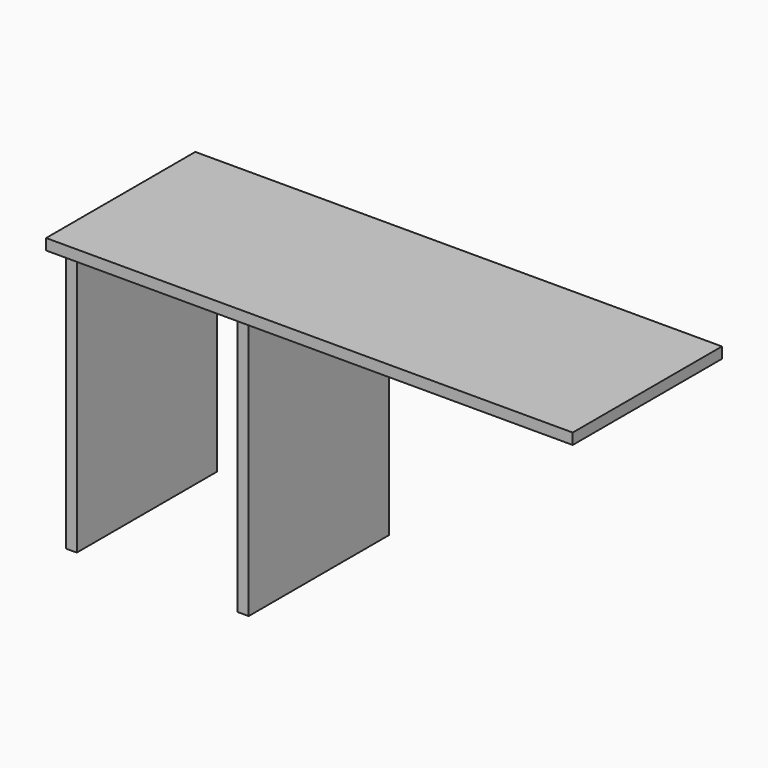
from build123d import *

# Parameters (mm, degrees)
F0_W     = 558.8
F0_H     = 374.65
F0_W_2   = 38.1
F0_W_3   = 482.6
F0_H_2   = 19.05
F0_H_3   = 184.15
F0_H_4   = 12.7
F1_DEPTH = 38.1
F2_DEPTH = 914.4
F3_DEPTH = 914.4


with BuildPart() as f1:
    # F0 (on Top) → F1 (new body)
    with BuildSketch(Plane.XY):
        with Locations((558.8, 136.525)):
            Rectangle(F0_W, F0_H)
        with Locations((895.35, 136.525)):
            Rectangle(F0_W_2, F0_H)
        with Locations((-558.8, 136.525)):
            Rectangle(F0_W, F0_H)
        with Locations((-895.35, 136.525)):
            Rectangle(F0_W_2, F0_H)
        with Locations((0, 136.525)):
            Rectangle(F0_W_3, F0_H)
        with Locations((895.35, -60.325)):
            Rectangle(F0_W_2, F0_H_2)
        with Locations((-895.35, -60.325)):
            Rectangle(F0_W_2, F0_H_2)
        with Locations((260.35, 136.525)):
            Rectangle(F0_W_2, F0_H)
        with Locations((895.35, -161.925)):
            Rectangle(F0_W_2, F0_H_3)
        with Locations((-895.35, -263.525)):
            Rectangle(F0_W_2, F0_H_2)
        with Locations((857.25, 136.525)):
            Rectangle(F0_W_2, F0_H)
        Polygon((-914.4, -323.85), (914.4, -323.85), (914.4, -273.05), (876.3, -273.05), (876.3, -285.75), (838.2, -285.75), (838.2, -273.05), (279.4, -273.05), (279.4, -285.75), (241.3, -285.75), (241.3, -273.05), (-241.3, -273.05), (-241.3, -285.75), (-279.4, -285.75), (-279.4, -273.05), (-838.2, -273.05), (-838.2, -285.75), (-876.3, -285.75), (-876.3, -273.05), (-914.4, -273.05), align=None)
        with Locations((-895.35, -161.925)):
            Rectangle(F0_W_2, F0_H_3)
        with Locations((895.35, -263.525)):
            Rectangle(F0_W_2, F0_H_2)
        with Locations((-857.25, 136.525)):
            Rectangle(F0_W_2, F0_H)
        with Locations((-260.35, 136.525)):
            Rectangle(F0_W_2, F0_H)
        with Locations((-558.8, -60.325)):
            Rectangle(F0_W, F0_H_2)
        with Locations((-558.8, -161.925)):
            Rectangle(F0_W, F0_H_3)
        with Locations((-260.35, -161.925)):
            Rectangle(F0_W_2, F0_H_3)
        with Locations((0, -161.925)):
            Rectangle(F0_W_3, F0_H_3)
        with Locations((558.8, -161.925)):
            Rectangle(F0_W, F0_H_3)
        with Locations((260.35, -161.925)):
            Rectangle(F0_W_2, F0_H_3)
        with Locations((857.25, -161.925)):
            Rectangle(F0_W_2, F0_H_3)
        with Locations((558.8, -60.325)):
            Rectangle(F0_W, F0_H_2)
        with Locations((-857.25, -161.925)):
            Rectangle(F0_W_2, F0_H_3)
        with Locations((-857.25, -60.325)):
            Rectangle(F0_W_2, F0_H_2)
        with Locations((-857.25, -263.525)):
            Rectangle(F0_W_2, F0_H_2)
        with Locations((-857.25, -279.4)):
            Rectangle(F0_W_2, F0_H_4)
        with Locations((-558.8, -263.525)):
            Rectangle(F0_W, F0_H_2)
        with Locations((0, -60.325)):
            Rectangle(F0_W_3, F0_H_2)
        with Locations((0, -263.525)):
            Rectangle(F0_W_3, F0_H_2)
        with Locations((-260.35, -263.525)):
            Rectangle(F0_W_2, F0_H_2)
        with Locations((-260.35, -279.4)):
            Rectangle(F0_W_2, F0_H_4)
        with Locations((-260.35, -60.325)):
            Rectangle(F0_W_2, F0_H_2)
        with Locations((260.35, -60.325)):
            Rectangle(F0_W_2, F0_H_2)
        with Locations((260.35, -279.4)):
            Rectangle(F0_W_2, F0_H_4)
        with Locations((260.35, -263.525)):
            Rectangle(F0_W_2, F0_H_2)
        with Locations((558.8, -263.525)):
            Rectangle(F0_W, F0_H_2)
        with Locations((857.25, -60.325)):
            Rectangle(F0_W_2, F0_H_2)
        with Locations((857.25, -263.525)):
            Rectangle(F0_W_2, F0_H_2)
        with Locations((857.25, -279.4)):
            Rectangle(F0_W_2, F0_H_4)
    extrude(amount=F1_DEPTH)

    # F0 (on Top) → F2 (join)
    with BuildSketch(Plane.XY):
        with Locations((-260.35, -263.525)):
            Rectangle(F0_W_2, F0_H_2)
        with Locations((-260.35, -60.325)):
            Rectangle(F0_W_2, F0_H_2)
        with Locations((-260.35, -161.925)):
            Rectangle(F0_W_2, F0_H_3)
        with Locations((-260.35, -279.4)):
            Rectangle(F0_W_2, F0_H_4)
        with Locations((-260.35, 136.525)):
            Rectangle(F0_W_2, F0_H)
    extrude(amount=-F2_DEPTH)

    # F0 (on Top) → F3 (join)
    with BuildSketch(Plane.XY):
        with Locations((-857.25, -263.525)):
            Rectangle(F0_W_2, F0_H_2)
        with Locations((-857.25, 136.525)):
            Rectangle(F0_W_2, F0_H)
        with Locations((-857.25, -60.325)):
            Rectangle(F0_W_2, F0_H_2)
        with Locations((-857.25, -279.4)):
            Rectangle(F0_W_2, F0_H_4)
        with Locations((-857.25, -161.925)):
            Rectangle(F0_W_2, F0_H_3)
    extrude(amount=-F3_DEPTH)


solid = f1.part
